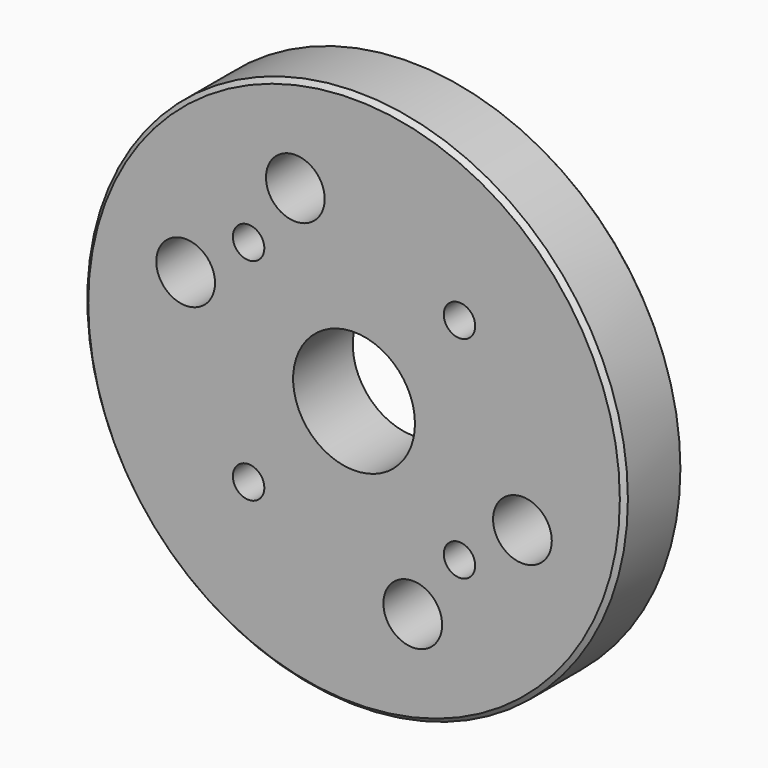
from build123d import *

# Parameters (mm, degrees)
F0_R     = 92.075
F0_R_2   = 20.75
F1_DEPTH = 25.4
F2_R     = 10
F3_DEPTH = 25.4
F5_D     = 10.71626
F6_SIZE  = 1.524


with BuildPart() as f1:
    # F0 (on Front) → F1 (new body)
    with BuildSketch(Plane.XZ):
        Circle(F0_R)
        Circle(F0_R_2, mode=Mode.SUBTRACT)
    extrude(amount=-F1_DEPTH)

    # F2 (on face) → F3 (cut)
    with BuildSketch(Plane.XZ):
        with Locations((-57.3634247583, 20)):
            Circle(F2_R)
        with Locations((-20, 57.3634247583)):
            Circle(F2_R)
        with Locations((57.3634247583, -20)):
            Circle(F2_R)
        with Locations((20, -57.3634247583)):
            Circle(F2_R)
    extrude(amount=-F3_DEPTH, mode=Mode.SUBTRACT)

    # F5 (through all)
    with Locations(Plane.XZ):
        with Locations((-35.9210244843, 35.9210244843), (35.9210244843, 35.9210244843), (35.9210244843, -35.9210244843), (-35.9210244843, -35.9210244843)):
            Hole(F5_D / 2)

    # F6
    f6_edges = [f1.edges().sort_by_distance(p)[0] for p in [
        (92.075, 12.7, 0),
        (-92.075, 0, 0),
        (-92.075, 25.4, 0),
    ]]
    chamfer(f6_edges, length=F6_SIZE)


solid = f1.part
